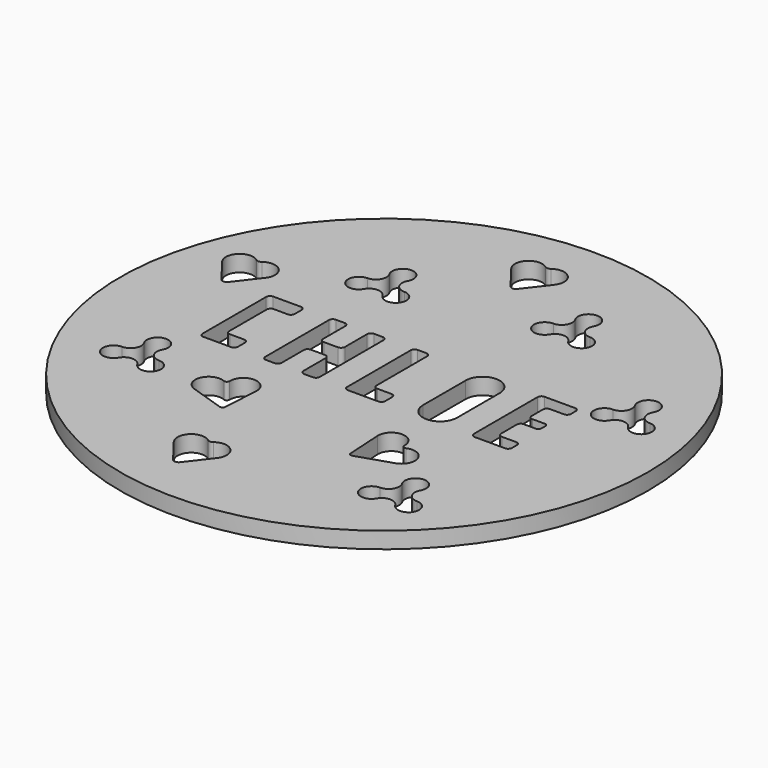
from build123d import *

# Parameters (mm, degrees)
F0_R     = 24.2
F1_DEPTH = 1.5
F3_DEPTH = 1.501


with BuildPart() as f1:
    # F0 (on Top) → F1 (new body)
    with BuildSketch(Plane.XY):
        Circle(F0_R)
        with BuildLine():
            Line((-14.125, -3.15), (-14.125, 4.15))
            ThreePointArc((-14.125, 4.15), (-14.022487, 4.397487), (-13.775, 4.5))
            Line((-13.775, 4.5), (-11.225, 4.5))
            ThreePointArc((-11.225, 4.5), (-10.977513, 4.397487), (-10.875, 4.15))
            Line((-10.875, 4.15), (-10.875, 3.35))
            ThreePointArc((-10.875, 3.35), (-10.977513, 3.102513), (-11.225, 3))
            Line((-11.225, 3), (-12.525, 3))
            ThreePointArc((-12.525, 3), (-12.772487, 2.897487), (-12.875, 2.65))
            Line((-12.875, 2.65), (-12.875, -1.65))
            ThreePointArc((-12.875, -1.65), (-12.772487, -1.897487), (-12.525, -2))
            Line((-12.525, -2), (-11.225, -2))
            ThreePointArc((-11.225, -2), (-10.977513, -2.102513), (-10.875, -2.35))
            Line((-10.875, -2.35), (-10.875, -3.15))
            ThreePointArc((-10.875, -3.15), (-10.977513, -3.397487), (-11.225, -3.5))
            Line((-11.225, -3.5), (-13.775, -3.5))
            ThreePointArc((-13.775, -3.5), (-14.022487, -3.397487), (-14.125, -3.15))
        make_face(mode=Mode.SUBTRACT)
        with BuildLine():
            Line((-8.375, -3.15), (-8.375, 4.15))
            ThreePointArc((-8.375, 4.15), (-8.272487, 4.397487), (-8.025, 4.5))
            Line((-8.025, 4.5), (-7.225, 4.5))
            ThreePointArc((-7.225, 4.5), (-6.977513, 4.397487), (-6.875, 4.15))
            Line((-6.875, 4.15), (-6.875, 1.6))
            ThreePointArc((-6.875, 1.6), (-6.772487, 1.352513), (-6.525, 1.25))
            Line((-6.525, 1.25), (-5.225, 1.25))
            ThreePointArc((-5.225, 1.25), (-4.977513, 1.352513), (-4.875, 1.6))
            Line((-4.875, 1.6), (-4.875, 4.15))
            ThreePointArc((-4.875, 4.15), (-4.772487, 4.397487), (-4.525, 4.5))
            Line((-4.525, 4.5), (-3.725, 4.5))
            ThreePointArc((-3.725, 4.5), (-3.477513, 4.397487), (-3.375, 4.15))
            Line((-3.375, 4.15), (-3.375, -3.15))
            ThreePointArc((-3.375, -3.15), (-3.477513, -3.397487), (-3.725, -3.5))
            Line((-3.725, -3.5), (-4.525, -3.5))
            ThreePointArc((-4.525, -3.5), (-4.772487, -3.397487), (-4.875, -3.15))
            Line((-4.875, -3.15), (-4.875, -0.6))
            ThreePointArc((-4.875, -0.6), (-4.977513, -0.352513), (-5.225, -0.25))
            Line((-5.225, -0.25), (-6.525, -0.25))
            ThreePointArc((-6.525, -0.25), (-6.772487, -0.352513), (-6.875, -0.6))
            Line((-6.875, -0.6), (-6.875, -3.15))
            ThreePointArc((-6.875, -3.15), (-6.977513, -3.397487), (-7.225, -3.5))
            Line((-7.225, -3.5), (-8.025, -3.5))
            ThreePointArc((-8.025, -3.5), (-8.272487, -3.397487), (-8.375, -3.15))
        make_face(mode=Mode.SUBTRACT)
        with BuildLine():
            Line((-0.875, -3.15), (-0.875, 4.15))
            ThreePointArc((-0.875, 4.15), (-0.772487, 4.397487), (-0.525, 4.5))
            Line((-0.525, 4.5), (0.275, 4.5))
            ThreePointArc((0.275, 4.5), (0.522487, 4.397487), (0.625, 4.15))
            Line((0.625, 4.15), (0.625, -1.65))
            ThreePointArc((0.625, -1.65), (0.727513, -1.897487), (0.975, -2))
            Line((0.975, -2), (2.275, -2))
            ThreePointArc((2.275, -2), (2.522487, -2.102513), (2.625, -2.35))
            Line((2.625, -2.35), (2.625, -3.15))
            ThreePointArc((2.625, -3.15), (2.522487, -3.397487), (2.275, -3.5))
            Line((2.275, -3.5), (-0.525, -3.5))
            ThreePointArc((-0.525, -3.5), (-0.772487, -3.397487), (-0.875, -3.15))
        make_face(mode=Mode.SUBTRACT)
        with BuildLine():
            Line((5.125, -1.9375), (5.125, 2.9375))
            ThreePointArc((5.125, 2.9375), (6.6875, 4.5), (8.25, 2.9375))
            Line((8.25, 2.9375), (8.25, -1.9375))
            ThreePointArc((8.25, -1.9375), (6.6875, -3.5), (5.125, -1.9375))
        make_face(mode=Mode.SUBTRACT)
        with BuildLine():
            Line((11.1, 4.5), (13.9, 4.5))
            ThreePointArc((13.9, 4.5), (14.147487, 4.397487), (14.25, 4.15))
            Line((14.25, 4.15), (14.25, 3.6))
            ThreePointArc((14.25, 3.6), (14.147487, 3.352513), (13.9, 3.25))
            Line((13.9, 3.25), (12.6, 3.25))
            ThreePointArc((12.6, 3.25), (12.352513, 3.147487), (12.25, 2.9))
            Line((12.25, 2.9), (12.25, 1.6))
            ThreePointArc((12.25, 1.6), (12.352513, 1.352513), (12.6, 1.25))
            Line((12.6, 1.25), (13.75, 1.25))
            ThreePointArc((13.75, 1.25), (13.926777, 1.176777), (14, 1))
            Line((14, 1), (14, 0.5))
            ThreePointArc((14, 0.5), (13.926777, 0.323223), (13.75, 0.25))
            Line((13.75, 0.25), (12.6, 0.25))
            ThreePointArc((12.6, 0.25), (12.352513, 0.147487), (12.25, -0.1))
            Line((12.25, -0.1), (12.25, -1.9))
            ThreePointArc((12.25, -1.9), (12.352513, -2.147487), (12.6, -2.25))
            Line((12.6, -2.25), (13.9, -2.25))
            ThreePointArc((13.9, -2.25), (14.147487, -2.352513), (14.25, -2.6))
            Line((14.25, -2.6), (14.25, -3.15))
            ThreePointArc((14.25, -3.15), (14.147487, -3.397487), (13.9, -3.5))
            Line((13.9, -3.5), (11.1, -3.5))
            ThreePointArc((11.1, -3.5), (10.852513, -3.397487), (10.75, -3.15))
            Line((10.75, -3.15), (10.75, 4.15))
            ThreePointArc((10.75, 4.15), (10.852513, 4.397487), (11.1, 4.5))
        make_face(mode=Mode.SUBTRACT)
    extrude(amount=F1_DEPTH)

    # F2 (on face) → F3 (cut, through all)
    with BuildSketch(Plane.XY.offset(1.5)):
        with BuildLine():
            ThreePointArc((-7.748467, 12.41033), (-8.601716, 13.868932), (-9.438278, 12.400696))
            ThreePointArc((-9.438278, 12.400696), (-9.434124, 11.429097), (-10.274868, 10.942094))
            ThreePointArc((-10.274868, 10.942094), (-11.123955, 9.466579), (-9.421592, 9.473858))
            ThreePointArc((-9.421592, 9.473858), (-8.579467, 9.966481), (-7.731781, 9.483491))
            ThreePointArc((-7.731781, 9.483491), (-6.062776, 9.48587), (-6.895219, 10.93246))
            ThreePointArc((-6.895219, 10.93246), (-7.745663, 11.426702), (-7.748467, 12.41033))
        make_face()
        with BuildLine():
            ThreePointArc((7.03711, 15.221069), (6.183861, 16.679672), (5.347299, 15.211436))
            ThreePointArc((5.347299, 15.211436), (5.351453, 14.239836), (4.510709, 13.752833))
            ThreePointArc((4.510709, 13.752833), (3.661622, 12.277318), (5.363985, 12.284597))
            ThreePointArc((5.363985, 12.284597), (6.20611, 12.777221), (7.053796, 12.294231))
            ThreePointArc((7.053796, 12.294231), (8.722801, 12.29661), (7.890359, 13.7432))
            ThreePointArc((7.890359, 13.7432), (7.039914, 14.237442), (7.03711, 15.221069))
        make_face()
        with BuildLine():
            ThreePointArc((13.248885, -12.380267), (12.395637, -10.921664), (11.559074, -12.389901))
            ThreePointArc((11.559074, -12.389901), (11.563229, -13.3615), (10.722485, -13.848503))
            ThreePointArc((10.722485, -13.848503), (9.873397, -15.324018), (11.575761, -15.316739))
            ThreePointArc((11.575761, -15.316739), (12.417885, -14.824116), (13.265572, -15.307105))
            ThreePointArc((13.265572, -15.307105), (14.934576, -15.304726), (14.102134, -13.858137))
            ThreePointArc((14.102134, -13.858137), (13.251689, -13.363895), (13.248885, -12.380267))
        make_face()
        with BuildLine():
            ThreePointArc((-14.812727, -6.868164), (-15.665976, -5.409562), (-16.502538, -6.877798))
            ThreePointArc((-16.502538, -6.877798), (-16.498384, -7.849397), (-17.339128, -8.3364))
            ThreePointArc((-17.339128, -8.3364), (-18.188215, -9.811915), (-16.485852, -9.804636))
            ThreePointArc((-16.485852, -9.804636), (-15.643727, -9.312013), (-14.796041, -9.795003))
            ThreePointArc((-14.796041, -9.795003), (-13.127036, -9.792624), (-13.959479, -8.346034))
            ThreePointArc((-13.959479, -8.346034), (-14.809923, -7.851792), (-14.812727, -6.868164))
        make_face()
        with BuildLine():
            ThreePointArc((18.701359, 7.48681), (17.84811, 8.945413), (17.011548, 7.477176))
            ThreePointArc((17.011548, 7.477176), (17.015702, 6.505577), (16.174958, 6.018574))
            ThreePointArc((16.174958, 6.018574), (15.325871, 4.543059), (17.028234, 4.550338))
            ThreePointArc((17.028234, 4.550338), (17.870359, 5.042961), (18.718045, 4.559972))
            ThreePointArc((18.718045, 4.559972), (20.38705, 4.562351), (19.554608, 6.00894))
            ThreePointArc((19.554608, 6.00894), (18.704163, 6.503182), (18.701359, 7.48681))
        make_face()
        with BuildLine():
            ThreePointArc((5.750423, -11.014535), (5.859167, -11.206558), (6.077644, -11.237637))
            Line((6.077644, -11.237637), (9.225963, -10.208974))
            ThreePointArc((9.225963, -10.208974), (9.989557, -8.608562), (8.353775, -7.924009))
            ThreePointArc((8.353775, -7.924009), (8.112493, -7.901634), (8.003521, -7.685203))
            ThreePointArc((8.003521, -7.685203), (6.768706, -6.412557), (5.557861, -7.708029))
            Line((5.557861, -7.708029), (5.750423, -11.014535))
        make_face()
        with BuildLine():
            ThreePointArc((-18.316833, 4.255834), (-18, 4.1), (-17.683167, 4.255834))
            Line((-17.683167, 4.255834), (-16.010595, 6.426185))
            ThreePointArc((-16.010595, 6.426185), (-16.114499, 8.069681), (-17.757446, 8.181931))
            ThreePointArc((-17.757446, 8.181931), (-18, 8.1), (-18.242554, 8.181931))
            ThreePointArc((-18.242554, 8.181931), (-19.885501, 8.069681), (-19.989405, 6.426185))
            Line((-19.989405, 6.426185), (-18.316833, 4.255834))
        make_face()
        with BuildLine():
            ThreePointArc((-5.557861, -7.708029), (-6.768706, -6.412557), (-8.003521, -7.685203))
            ThreePointArc((-8.003521, -7.685203), (-8.112493, -7.901634), (-8.353775, -7.924009))
            ThreePointArc((-8.353775, -7.924009), (-9.989557, -8.608562), (-9.225963, -10.208974))
            Line((-9.225963, -10.208974), (-6.077644, -11.237637))
            ThreePointArc((-6.077644, -11.237637), (-5.859167, -11.206558), (-5.750423, -11.014535))
            Line((-5.750423, -11.014535), (-5.557861, -7.708029))
        make_face()
        with BuildLine():
            ThreePointArc((-1.481417, 16.340889), (-1.164584, 16.185055), (-0.847751, 16.340889))
            Line((-0.847751, 16.340889), (0.824821, 18.51124))
            ThreePointArc((0.824821, 18.51124), (0.720917, 20.154736), (-0.92203, 20.266986))
            ThreePointArc((-0.92203, 20.266986), (-1.164584, 20.185055), (-1.407138, 20.266986))
            ThreePointArc((-1.407138, 20.266986), (-3.050085, 20.154736), (-3.153989, 18.51124))
            Line((-3.153989, 18.51124), (-1.481417, 16.340889))
        make_face()
        with BuildLine():
            ThreePointArc((-3.566354, -19.72563), (-3.249521, -19.881464), (-2.932688, -19.72563))
            Line((-2.932688, -19.72563), (-1.260116, -17.55528))
            ThreePointArc((-1.260116, -17.55528), (-1.36402, -15.911783), (-3.006967, -15.799533))
            ThreePointArc((-3.006967, -15.799533), (-3.249521, -15.881464), (-3.492075, -15.799533))
            ThreePointArc((-3.492075, -15.799533), (-5.135022, -15.911783), (-5.238926, -17.55528))
            Line((-5.238926, -17.55528), (-3.566354, -19.72563))
        make_face()
    extrude(amount=-F3_DEPTH, mode=Mode.SUBTRACT)


solid = f1.part
